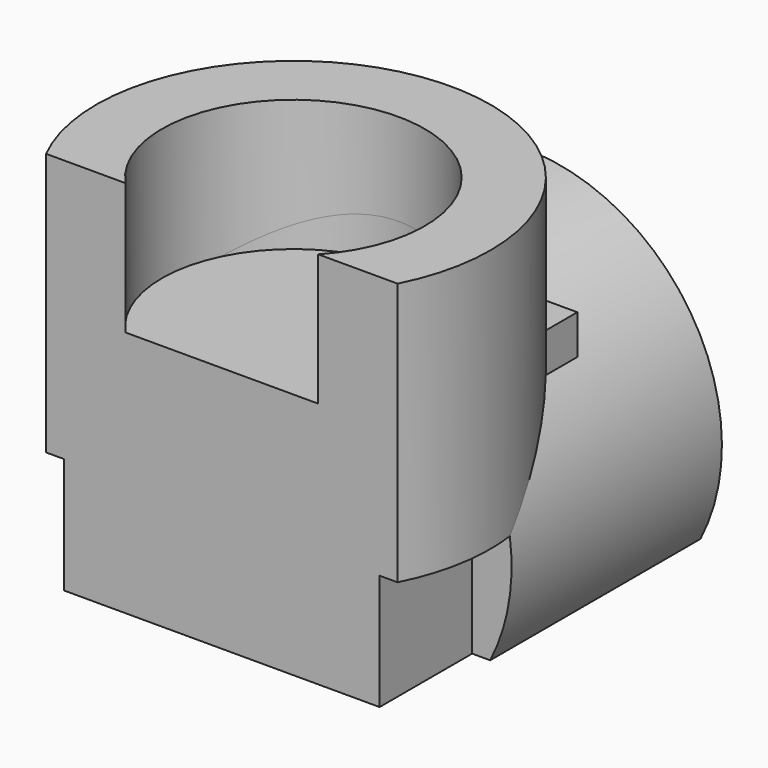
from build123d import *

# Parameters (mm, degrees)
F0_W      = 15.24
F0_H      = 15.24
F1_DEPTH  = 15.24
F2_R      = 9.525
F2_R_2    = 6.35
F3_DEPTH  = 6.35
F4_R      = 9.525
F4_R_2    = 6.35
F5_DEPTH  = 6.35
F6_R      = 6.35
F7_DEPTH  = 25.4
F8_R      = 6.35
F9_DEPTH  = 25.4
F11_DEPTH = 12.7


with BuildPart() as f1:
    # F0 (on Front) → F1 (new body)
    with BuildSketch(Plane.XZ):
        Rectangle(F0_W, F0_H)
    extrude(amount=F1_DEPTH)

    # F2 (on face) → F3 (join, symmetric)
    with BuildSketch(Plane.XY.offset(7.62)):
        with Locations((0, -7.62)):
            Circle(F2_R)
        with Locations((0, -7.62)):
            Circle(F2_R_2, mode=Mode.SUBTRACT)
    extrude(amount=F3_DEPTH, both=True)

    # F4 (on face) → F5 (join, symmetric)
    with BuildSketch(Plane(origin=(0, 0, 0), x_dir=(-1, 0, 0), z_dir=(0, 1, 0))):
        Circle(F4_R)
        Circle(F4_R_2, mode=Mode.SUBTRACT)
    extrude(amount=F5_DEPTH, both=True)

    # F6 (on face) → F7 (cut)
    with BuildSketch(Plane.XY.offset(7.62)):
        with Locations((0, -7.62)):
            Circle(F6_R)
    extrude(amount=F7_DEPTH, mode=Mode.SUBTRACT)

    # F8 (on face) → F9 (cut)
    with BuildSketch(Plane(origin=(0, 0, 0), x_dir=(-1, 0, 0), z_dir=(0, 1, 0))):
        Circle(F8_R)
    extrude(amount=F9_DEPTH, mode=Mode.SUBTRACT)

    # F10 (on Right) → F11 (cut, symmetric)
    with BuildSketch(Plane.YZ):
        Polygon((13.4351789125, -14.9034729615), (13.4351789125, -4.318), (-11.938, -4.318), (-11.938, 21.0551789125), (-22.5234729615, 21.0551789125), (-22.5234729615, -14.9034729615), align=None)
    extrude(amount=F11_DEPTH, both=True, mode=Mode.SUBTRACT)


solid = f1.part
